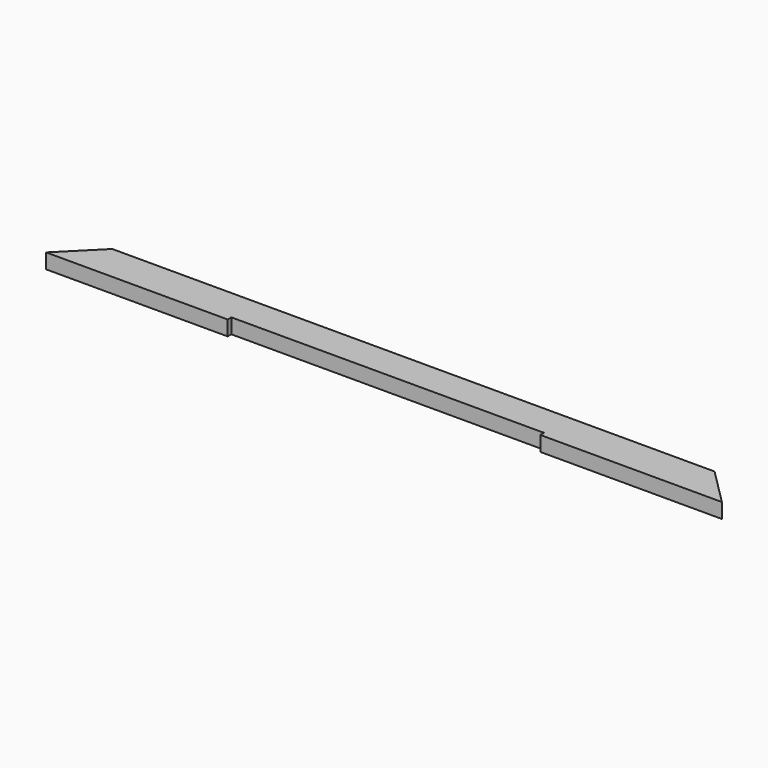
from build123d import *

# Parameters (mm, degrees)
F1_DEPTH = 20.6375
F2_W     = 12.7
F2_H     = 6.35
F3_DEPTH = 933.451
F4_W     = 431.8
F4_H     = 20.6375
F5_DEPTH = 6.35


with BuildPart() as f1:
    # F0 (on Top) → F1 (new body)
    with BuildSketch(Plane.XY):
        Polygon((50.8, 50.8), (0, 0), (933.45, 0), (882.65, 50.8), align=None)
    extrude(amount=F1_DEPTH)

    # F2 (on Right) → F3 (cut, through all)
    with BuildSketch(Plane.YZ):
        with Locations((44.45, 9.525)):
            Rectangle(F2_W, F2_H)
    extrude(amount=F3_DEPTH, mode=Mode.SUBTRACT)

    # F4 (on face) → F5 (cut)
    with BuildSketch(Plane.XZ):
        with Locations((466.725, 10.31875)):
            Rectangle(F4_W, F4_H)
    extrude(amount=-F5_DEPTH, mode=Mode.SUBTRACT)


solid = f1.part
